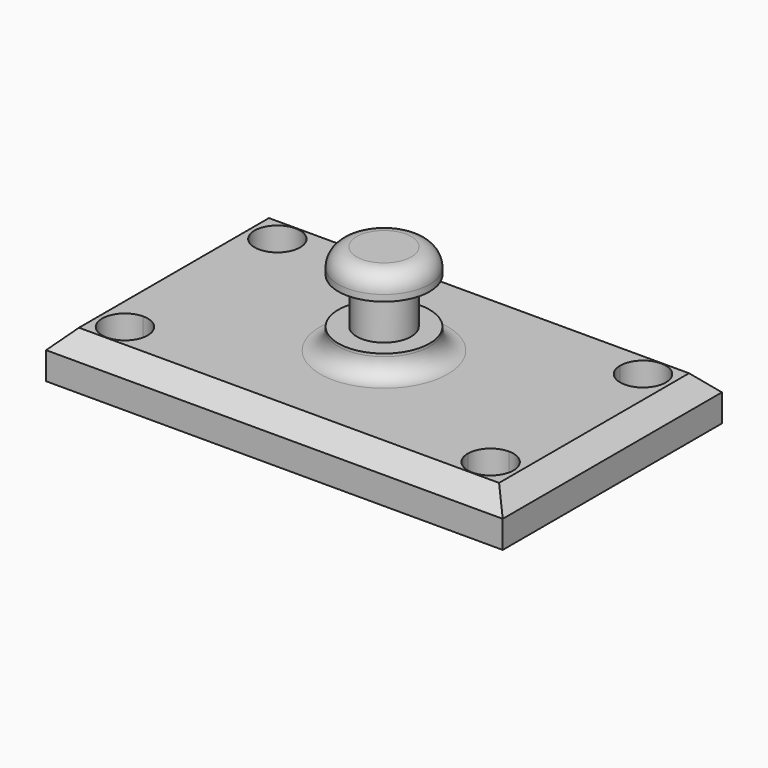
from build123d import *

# Parameters (mm, degrees)
F0_W     = 127
F0_H     = 76.2
F1_DEPTH = 12.7
F3_DEPTH = 12.701
F4_W     = 12.7
F4_H     = 25.4
F6_W     = 12.7
F6_H     = 12.7
F8_SIZE  = 5.08
F9_R     = 5.08


with BuildPart() as f1:
    # F0 (on Top) → F1 (new body)
    with BuildSketch(Plane.XY):
        Rectangle(F0_W, F0_H)
    extrude(amount=F1_DEPTH)

    # F2 (on face) → F3 (cut, through all)
    with BuildSketch(Plane.XY.offset(12.7)):
        with BuildLine():
            Line((-50.846364, -26.493081), (-50.846364, -20.143081))
            ThreePointArc((-50.846364, -20.143081), (-55.336492, -30.983209), (-44.496364, -26.493081))
            Line((-44.496364, -26.493081), (-50.846364, -26.493081))
        make_face()
        with BuildLine():
            ThreePointArc((-44.496364, -26.493081), (-46.356236, -22.002953), (-50.846364, -20.143081))
            Line((-50.846364, -20.143081), (-50.846364, -26.493081))
            Line((-50.846364, -26.493081), (-44.496364, -26.493081))
        make_face()
        with BuildLine():
            Line((-50.846364, 20.143081), (-50.846364, 26.493081))
            Line((-50.846364, 26.493081), (-44.496364, 26.493081))
            ThreePointArc((-44.496364, 26.493081), (-55.336492, 30.983209), (-50.846364, 20.143081))
        make_face()
        with BuildLine():
            Line((-44.496364, 26.493081), (-50.846364, 26.493081))
            Line((-50.846364, 26.493081), (-50.846364, 20.143081))
            ThreePointArc((-50.846364, 20.143081), (-46.356236, 22.002953), (-44.496364, 26.493081))
        make_face()
        with BuildLine():
            ThreePointArc((57.196364, -26.493081), (55.336492, -22.002953), (50.846364, -20.143081))
            Line((50.846364, -20.143081), (50.846364, -26.493081))
            Line((50.846364, -26.493081), (44.496364, -26.493081))
            ThreePointArc((44.496364, -26.493081), (50.846364, -32.843081), (57.196364, -26.493081))
        make_face()
        with BuildLine():
            Line((50.846364, -26.493081), (50.846364, -20.143081))
            ThreePointArc((50.846364, -20.143081), (46.356236, -22.002953), (44.496364, -26.493081))
            Line((44.496364, -26.493081), (50.846364, -26.493081))
        make_face()
        with BuildLine():
            ThreePointArc((57.196364, 26.493081), (50.846364, 32.843081), (44.496364, 26.493081))
            Line((44.496364, 26.493081), (50.846364, 26.493081))
            Line((50.846364, 26.493081), (50.846364, 20.143081))
            ThreePointArc((50.846364, 20.143081), (55.336492, 22.002953), (57.196364, 26.493081))
        make_face()
        with BuildLine():
            Line((50.846364, 26.493081), (44.496364, 26.493081))
            ThreePointArc((44.496364, 26.493081), (46.356236, 22.002953), (50.846364, 20.143081))
            Line((50.846364, 20.143081), (50.846364, 26.493081))
        make_face()
    extrude(amount=-F3_DEPTH, mode=Mode.SUBTRACT)

    # F4 (on Front) → F5 (revolve)
    with BuildSketch(Plane.XZ):
        with Locations((6.35, 25.4)):
            Rectangle(F4_W, F4_H)
    revolve(axis=Axis((0, 0, 25.4), (0, 0, 1)))

    # F6 (on Front) → F7 (revolve, cut)
    with BuildSketch(Plane.XZ):
        with Locations((-13.90852, 24.89885)):
            Rectangle(F6_W, F6_H)
    revolve(axis=Axis((0, 0, 12.7), (0, 0, 1)), mode=Mode.SUBTRACT)

    # F8
    f8_edges = [f1.edges().sort_by_distance(p)[0] for p in [
        (0, 38.1, 12.7),
        (-63.5, 0, 12.7),
        (0, -38.1, 12.7),
        (63.5, 0, 12.7),
    ]]
    chamfer(f8_edges, length=F8_SIZE)

    # F9
    f9_edges = [f1.edges().sort_by_distance(p)[0] for p in [
        (-12.7, 0, 38.1),
        (-12.7, 0, 12.7),
    ]]
    fillet(f9_edges, radius=F9_R)


solid = f1.part
